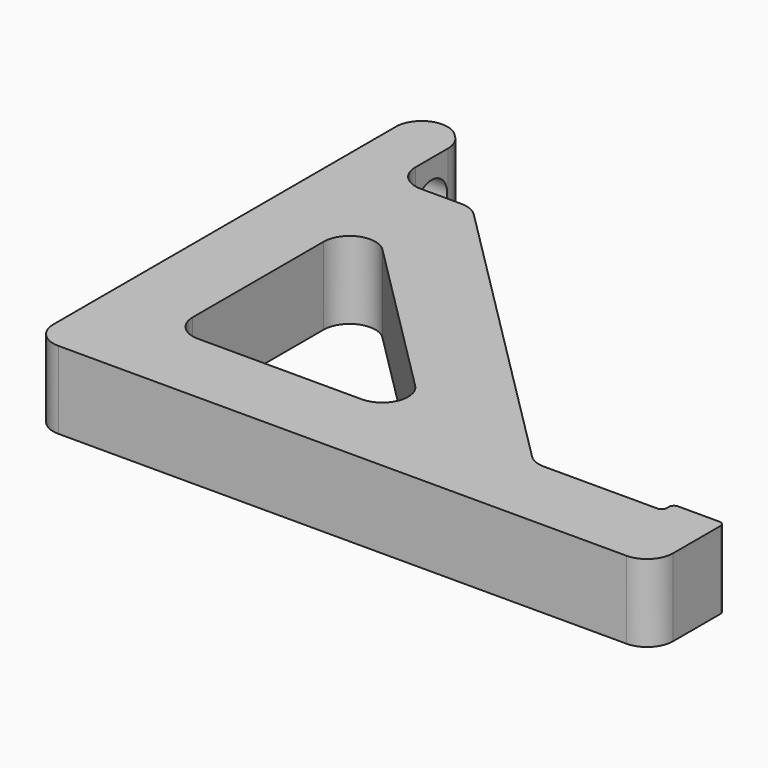
from build123d import *

# Parameters (mm, degrees)
F1_DEPTH = 3
F3_DEPTH = 3.001
F4_R     = 1
F5_R     = 0.2
F6_R     = 0.75
F7_DEPTH = 2.1223203436


with BuildPart() as f1:
    # F0 (on Top) → F1 (new body)
    with BuildSketch(Plane.XY):
        Polygon((17, 3), (0, 20), (0, 0), (24, 0), (24, 3.5), (22, 3.5), (22, 3), align=None)
        Polygon((12.7573593129, 3), (3, 3), (3, 12.7573593129), align=None, mode=Mode.SUBTRACT)
    extrude(amount=F1_DEPTH)

    # F2 (on face) → F3 (cut, through all)
    with BuildSketch(Plane.XY.offset(3)):
        Polygon((5.1213203436, 17.8786796564), (2.1213203436, 17.8786796564), (5.1213203436, 14.8786796564), align=None)
        Polygon((5.1213203436, 14.8786796564), (2.1213203436, 17.8786796564), (2.1213203436, 14.8786796564), align=None)
    extrude(amount=-F3_DEPTH, mode=Mode.SUBTRACT)

    # F4
    f4_edges = [f1.edges().sort_by_distance(p)[0] for p in [
        (5.12132, 14.87868, 1.5),
        (2.12132, 14.87868, 1.5),
        (3, 12.757359, 1.5),
        (17, 3, 1.5),
        (3, 3, 1.5),
        (12.757359, 3, 1.5),
        (2.12132, 17.87868, 1.5),
        (24, 0, 1.5),
        (0, 20, 1.5),
        (0, 0, 1.5),
    ]]
    fillet(f4_edges, radius=F4_R)

    # F5
    f5_edges = [f1.edges().sort_by_distance(p)[0] for p in [
        (22, 3, 1.5),
        (24, 3.5, 1.5),
        (22, 3.5, 1.5),
    ]]
    fillet(f5_edges, radius=F5_R)

    # F6 (on face) → F7 (cut, through all)
    with BuildSketch(Plane.YZ.offset(2.1213203436)):
        with Locations((16.6644660941, 1.5)):
            Circle(F6_R)
    extrude(amount=-F7_DEPTH, mode=Mode.SUBTRACT)


solid = f1.part
